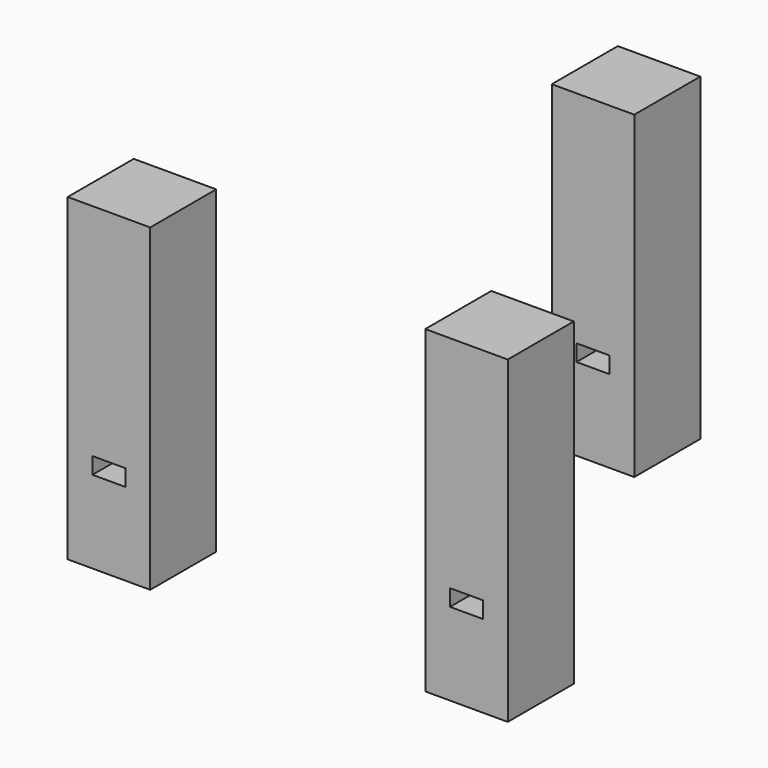
from build123d import *

# Parameters (mm, degrees)
BOX043_W          = 6
BOX043_H          = 15
BOX043_DEPTH      = 3
CYLINDER024_R     = 2
CYLINDER024_DEPTH = 50
BOX042_W          = 15
BOX042_H          = 15
BOX042_DEPTH      = 58


with BuildPart() as nut_hole002:
    # Box043 → Box043 (new body)
    with BuildSketch(Plane(origin=(-8.5, 5, 15), x_dir=(1, 0, 0), z_dir=(0, 0, 1))):
        with Locations((3, 7.5)):
            Rectangle(BOX043_W, BOX043_H)
    extrude(amount=BOX043_DEPTH)


with BuildPart() as cylinder016:
    # Cylinder024 → Cylinder024 (new body)
    with BuildSketch(Plane(origin=(-5.5, 12, 0), x_dir=(1, 0, 0), z_dir=(0, 0, 1))):
        Circle(CYLINDER024_R)
    extrude(amount=CYLINDER024_DEPTH)


with BuildPart() as cut047:
    # Box042 → Box042 (new body)
    with BuildSketch(Plane(origin=(-13, 5, 0), x_dir=(1, 0, 0), z_dir=(0, 0, 1))):
        with Locations((7.5, 7.5)):
            Rectangle(BOX042_W, BOX042_H)
    extrude(amount=BOX042_DEPTH)

    # Cut047: cut Cylinder016
    add(cylinder016.part, mode=Mode.SUBTRACT)


with BuildPart() as cut048:
    # Cut048 base: copy of Cut047
    add(cut047.part)

    # Cut048: cut Nut hole002
    add(nut_hole002.part, mode=Mode.SUBTRACT)


with BuildPart() as cut048_1:
    # Cut048 placement: moved
    add(cut048.part.moved(Location((-22, 0, 0))))


with BuildPart() as cut049:
    # Cut049 base: copy of Cut047
    add(cut047.part)

    # Cut049: cut Nut hole002
    add(nut_hole002.part, mode=Mode.SUBTRACT)


with BuildPart() as cut049_1:
    # Cut049 placement: moved
    add(cut049.part.moved(Location((43, 0, 0))))


with BuildPart() as extension_supports001:
    # Cut050 base: copy of Cut047
    add(cut047.part)

    # Cut050: cut Nut hole002
    add(nut_hole002.part, mode=Mode.SUBTRACT)


with BuildPart() as extension_supports001_1:
    # Cut050 placement: moved
    add(extension_supports001.part.moved(Location((10, 70, 0))))

    # Fusion091: union Cut048, Cut049
    add(cut048_1.part)
    add(cut049_1.part)


solid = extension_supports001_1.part
